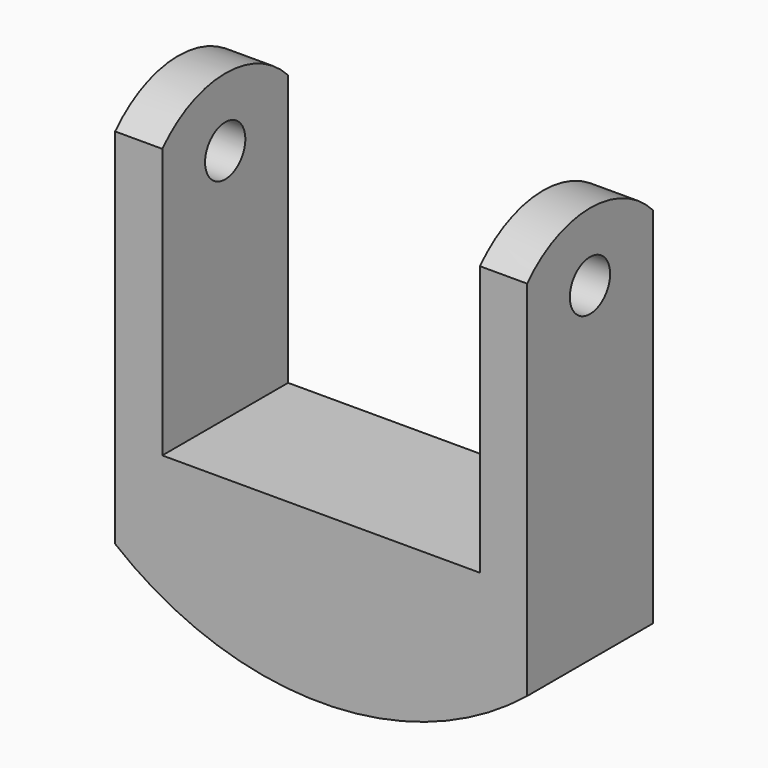
from build123d import *

# Parameters (mm, degrees)
F1_DEPTH = 31.75
F2_R     = 10.16
F3_DEPTH = 166.371
F5_DEPTH = 166.371


with BuildPart() as f1:
    # F0 (on Front) → F1 (new body, symmetric)
    with BuildSketch(Plane.XZ):
        Polygon((-108.20795, 89.455473), (-108.20795, -75.371138), (58.16205, -75.371138), (58.16205, 92.395943), (39.11205, 92.395943), (39.11205, -37.714908), (-89.15795, -37.714908), (-89.15795, 89.455473), align=None)
        with BuildLine():
            Line((58.16205, -75.371138), (-108.20795, -75.371138))
            ThreePointArc((-108.20795, -75.371138), (-25.02295, -104.792049), (58.16205, -75.371138))
        make_face()
    extrude(amount=F1_DEPTH, both=True)

    # F2 (on face) → F3 (cut, through all)
    with BuildSketch(Plane(origin=(-108.20795, 0, 0), x_dir=(0, -1, 0), z_dir=(-1, 0, 0))):
        with Locations((0, 57.705473)):
            Circle(F2_R)
    extrude(amount=-F3_DEPTH, mode=Mode.SUBTRACT)

    # F4 (on face) → F5 (cut, through all)
    with BuildSketch(Plane.YZ.offset(58.16205)):
        with BuildLine():
            ThreePointArc((-31.75, 71.282387), (-0.077504, 85.238302), (31.75, 71.639605))
            Line((31.75, 71.639605), (31.75, 92.395943))
            Line((31.75, 92.395943), (-31.75, 92.395943))
            Line((-31.75, 92.395943), (-31.75, 71.282387))
        make_face()
    extrude(amount=-F5_DEPTH, mode=Mode.SUBTRACT)


solid = f1.part
